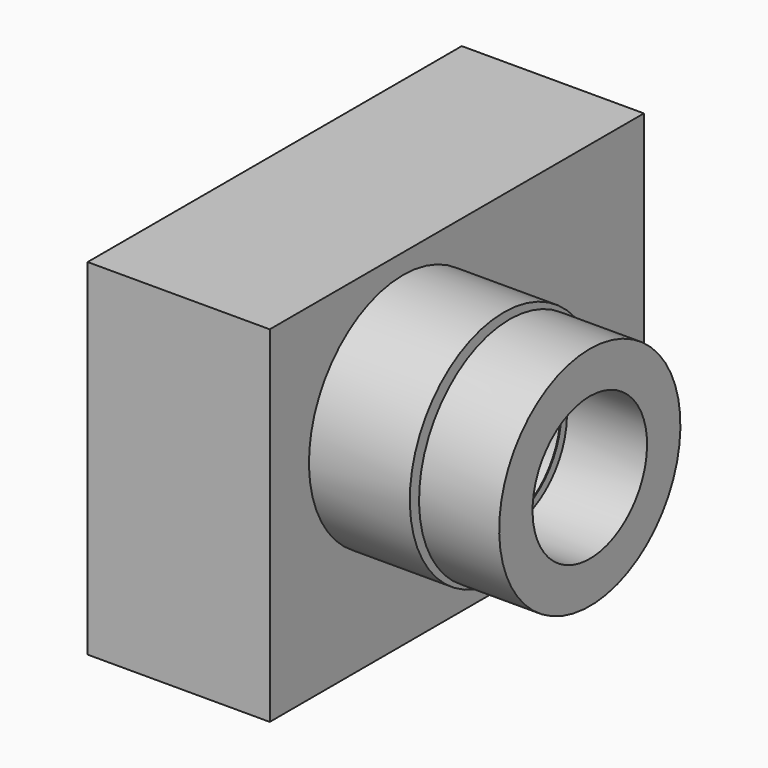
from build123d import *

# Parameters (mm, degrees)
F0_W     = 31.011032
F0_H     = 14.221618
F4_SIZE  = 0.15
F1_W     = 24.647661
F1_H     = 12.818201
F6_W     = 143.798173
F6_H     = 106.274911
F7_DEPTH = 56


with BuildPart() as f3:
    # F0 (on Front) → F3 (revolve)
    with BuildSketch(Plane.XZ):
        with Locations((15.505516, 29.035809)):
            Rectangle(F0_W, F0_H)
    revolve(axis=Axis((25.191288, 0, 0), (1, 0, 0)))

    # F4
    f4_edges = [f3.edges().sort_by_distance(p)[0] for p in [
        (31.011032, 0, -21.925),
    ]]
    chamfer(f4_edges, length=F4_SIZE)

    # F6 (on Right) → F7 (join)
    with BuildSketch(Plane.YZ):
        with Locations((20.68387, -10.882202)):
            Rectangle(F6_W, F6_H)
    extrude(amount=-F7_DEPTH)


with BuildPart() as f5:
    # F1 (on Front) → F5 (revolve)
    with BuildSketch(Plane.XZ):
        with Locations((45.110184, 28.4166)):
            Rectangle(F1_W, F1_H)
    revolve(axis=Axis((25.191288, 0, 0), (1, 0, 0)))


solid = Compound([f3.part, f5.part])
